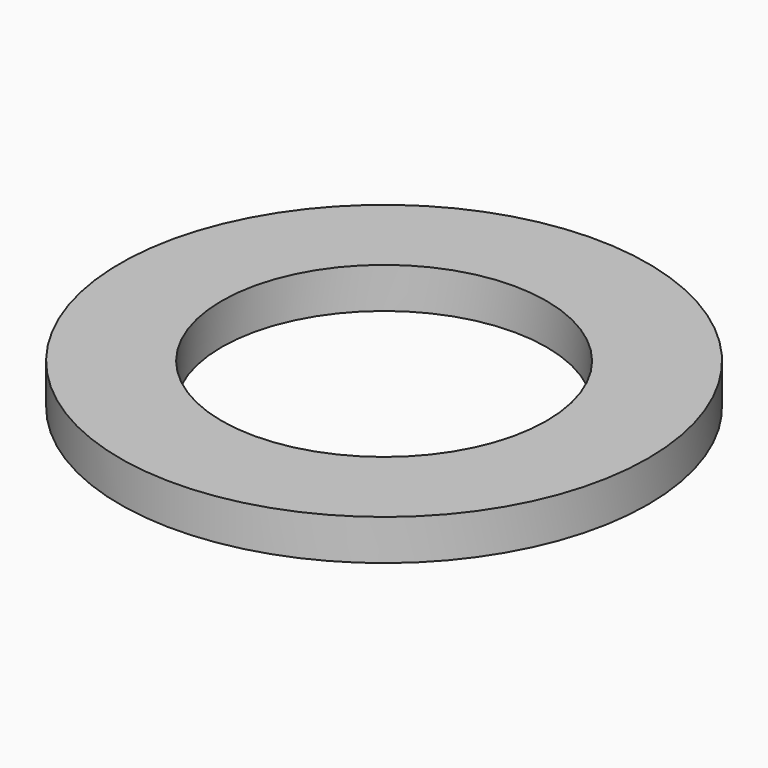
from build123d import *

# Parameters (mm, degrees)
CYLINDER007_R     = 0.4
CYLINDER007_DEPTH = 0.1
CYLINDER006_R     = 0.65
CYLINDER006_DEPTH = 0.1


with BuildPart() as cylinder007:
    # Cylinder007 → Cylinder007 (new body)
    with BuildSketch(Plane.XY.offset(1.62)):
        Circle(CYLINDER007_R)
    extrude(amount=CYLINDER007_DEPTH)


with BuildPart() as cut008:
    # Cylinder006 → Cylinder006 (new body)
    with BuildSketch(Plane.XY.offset(1.62)):
        Circle(CYLINDER006_R)
    extrude(amount=CYLINDER006_DEPTH)

    # Cut008: cut Cylinder007
    add(cylinder007.part, mode=Mode.SUBTRACT)


with BuildPart() as cut008_1:
    # Cut008 placement: moved
    add(cut008.part.moved(Location((8.72, 12.7, 0))))


solid = cut008_1.part
